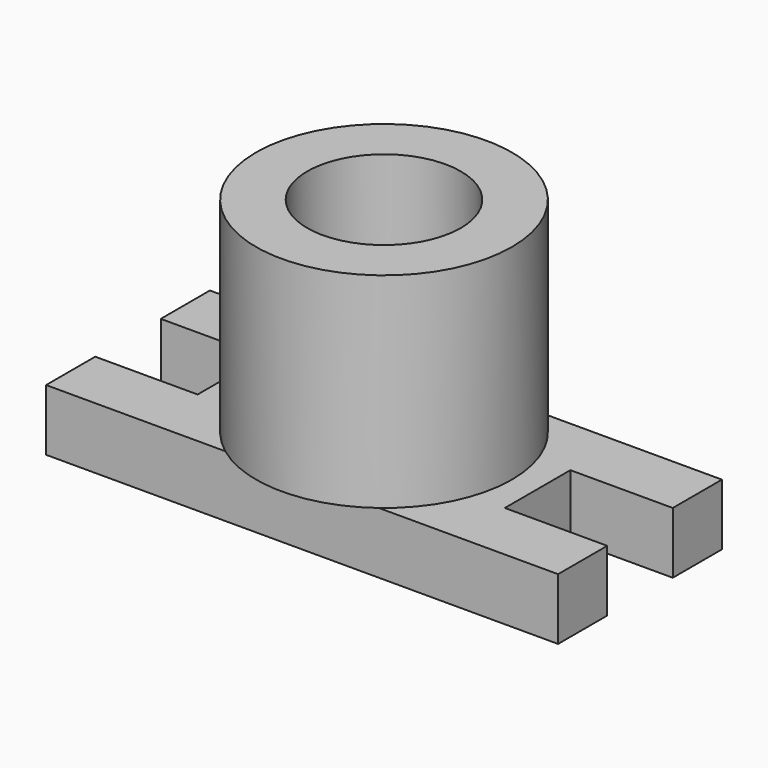
from build123d import *

# Parameters (mm, degrees)
F0_W     = 100
F0_H     = 40
F1_DEPTH = 12
F2_W     = 20
F2_H     = 16
F3_DEPTH = 12.001
F4_R     = 25
F5_DEPTH = 40
F6_R     = 15
F7_DEPTH = 20


with BuildPart() as f1:
    # F0 (on Top) → F1 (new body)
    with BuildSketch(Plane.XY):
        Rectangle(F0_W, F0_H)
    extrude(amount=F1_DEPTH)

    # F2 (on face) → F3 (cut, through all)
    with BuildSketch(Plane.XY.offset(12)):
        with Locations((-40, 0)):
            Rectangle(F2_W, F2_H)
        with Locations((40, 0)):
            Rectangle(F2_W, F2_H)
    extrude(amount=-F3_DEPTH, mode=Mode.SUBTRACT)

    # F4 (on face) → F5 (join)
    with BuildSketch(Plane.XY.offset(12)):
        Circle(F4_R)
    extrude(amount=F5_DEPTH)

    # F6 (on face) → F7 (cut)
    with BuildSketch(Plane.XY.offset(52)):
        Circle(F6_R)
    extrude(amount=-F7_DEPTH, mode=Mode.SUBTRACT)


solid = f1.part
